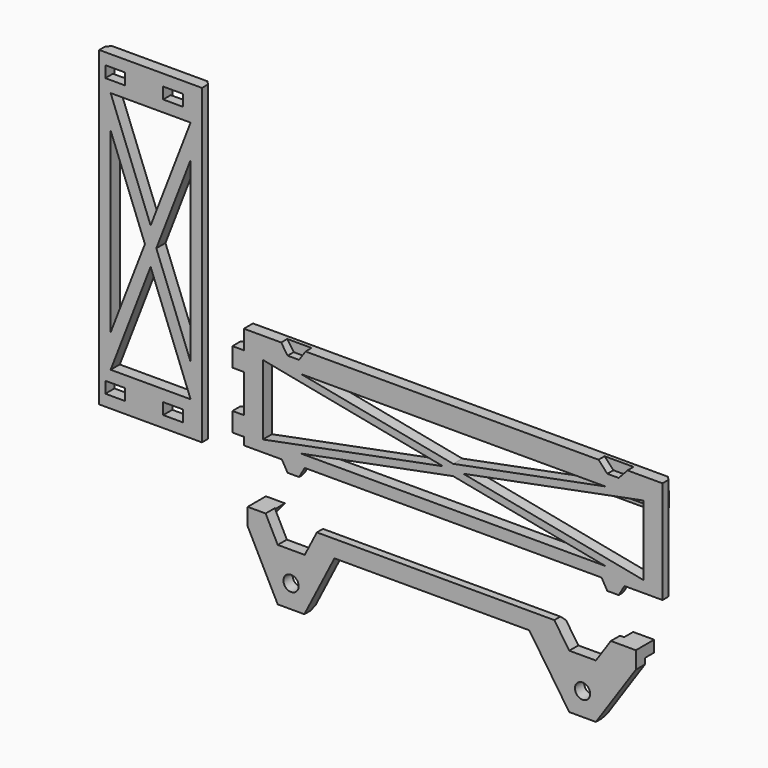
from build123d import *

# Parameters (mm, degrees)
SKETCH004_W             = 82
SKETCH004_H             = 27
SKETCH004_W_2           = 3
SKETCH004_H_2           = 5.2
PAD004_DEPTH            = 3
CHAMFER017_SIZE         = 1
CHAMFER018_SIZE         = 1
CHAMFER019_SIZE         = 0.5
CHAMFER020_SIZE         = 0.5
CHAMFER021_SIZE         = 0.5
CHAMFER022_SIZE         = 0.5
BODY002_PITCH_ANGLE     = -90
BODY002_PLACEMENT_ANGLE = -90
PAD002_DEPTH            = 3
POCKET_DEPTH            = 2
POCKET001_DEPTH         = 1.5
POCKET002_DEPTH         = 3
PAD006_DEPTH            = 3
CHAMFER014_SIZE         = 1
CHAMFER015_SIZE         = 0.5
CHAMFER016_SIZE         = 0.5
CHAMFER023_SIZE         = 0.5
CHAMFER024_SIZE         = 0.5
BODY001_PLACEMENT_ANGLE = 90
SKETCH_R                = 2
PAD_DEPTH               = 3
SKETCH001_W             = 5.5
SKETCH001_H             = 3
PAD005_DEPTH            = 3
CHAMFER_SIZE            = 1
CHAMFER009_SIZE         = 1
CHAMFER010_SIZE         = 1
CHAMFER011_SIZE         = 1
BODY_PLACEMENT_ANGLE    = 90


with BuildPart() as body002:
    # Sketch004 → Pad004 (new body)
    with BuildSketch(Plane.XY):
        with Locations((41, 13.5)):
            Rectangle(SKETCH004_W, SKETCH004_H)
        with Locations((4.5, 19.4)):
            Rectangle(SKETCH004_W_2, SKETCH004_H_2, mode=Mode.SUBTRACT)
        with Locations((4.5, 4.2)):
            Rectangle(SKETCH004_W_2, SKETCH004_H_2, mode=Mode.SUBTRACT)
        with Locations((77.5, 19.4)):
            Rectangle(SKETCH004_W_2, SKETCH004_H_2, mode=Mode.SUBTRACT)
        with Locations((77.5, 4.2)):
            Rectangle(SKETCH004_W_2, SKETCH004_H_2, mode=Mode.SUBTRACT)
        Polygon((9, 24), (9, 3), (36.230304, 13.5), align=None, mode=Mode.SUBTRACT)
        Polygon((45.769696, 13.5), (73, 24), (73, 3), align=None, mode=Mode.SUBTRACT)
        Polygon((17.659739, 24), (64.340261, 24), (41, 15), align=None, mode=Mode.SUBTRACT)
        Polygon((41, 12), (17.659739, 3), (64.340261, 3), align=None, mode=Mode.SUBTRACT)
    extrude(amount=PAD004_DEPTH)

    # Chamfer017
    chamfer017_edges = [body002.edges().sort_by_distance(p)[0] for p in [
        (41, 0, 3),
    ]]
    chamfer(chamfer017_edges, length=CHAMFER017_SIZE)

    # Chamfer018
    chamfer018_edges = [body002.edges().sort_by_distance(p)[0] for p in [
        (41, 27, 3),
    ]]
    chamfer(chamfer018_edges, length=CHAMFER018_SIZE)

    # Chamfer019
    chamfer019_edges = [body002.edges().sort_by_distance(p)[0] for p in [
        (6, 4.2, 3),
    ]]
    chamfer(chamfer019_edges, length=CHAMFER019_SIZE)

    # Chamfer020
    chamfer020_edges = [body002.edges().sort_by_distance(p)[0] for p in [
        (6, 19.4, 3),
    ]]
    chamfer(chamfer020_edges, length=CHAMFER020_SIZE)

    # Chamfer021
    chamfer021_edges = [body002.edges().sort_by_distance(p)[0] for p in [
        (76, 4.2, 3),
    ]]
    chamfer(chamfer021_edges, length=CHAMFER021_SIZE)

    # Chamfer022
    chamfer022_edges = [body002.edges().sort_by_distance(p)[0] for p in [
        (76, 19.4, 3),
    ]]
    chamfer(chamfer022_edges, length=CHAMFER022_SIZE)


with BuildPart() as body002_1:
    # Body002 pitch: moved
    add(body002.part.rotate(Axis((0, 0, 0), (0, 1, 0)), BODY002_PITCH_ANGLE))


with BuildPart() as body002_2:
    # Body002 placement: moved
    add(body002_1.part.moved(Location((-38, 0, -34))).rotate(Axis((-38, 0, -34), (0, 0, 1)), BODY002_PLACEMENT_ANGLE))


with BuildPart() as body001:
    # Sketch002 → Pad002 (new body)
    with BuildSketch(Plane.XY):
        Polygon((110, 27), (110, 0), (100, 0), (98.5, -2.598076), (95.5, -2.598076), (94, 0), (16, 0), (14.5, -2.598076), (11.5, -2.598076), (10, 0), (0, 0), (0, 2), (-3, 2), (-3, 7), (0, 7), (0, 17), (-3, 17), (-3, 22), (0, 22), (0, 27), align=None)
    extrude(amount=PAD002_DEPTH)

    # Sketch006 (on Face21 of Pad002) → Pocket (cut)
    with BuildSketch(Plane(origin=(0, 0, 0), x_dir=(1, 0, 0), z_dir=(0, 0, -1))):
        Polygon((9.8, -27), (11.5, -24.5), (14.5, -24.5), (16.2, -27), align=None)
        Polygon((93.2, -27), (95.5, -24.5), (98.5, -24.5), (100.8, -27), align=None)
    extrude(amount=-POCKET_DEPTH, mode=Mode.SUBTRACT)

    # Sketch007 (on Face10 of Pocket) → Pocket001 (cut)
    with BuildSketch(Plane.XY.offset(3)):
        Polygon((94, 0), (100, 0), (98.5, -2.598076), (95.5, -2.598076), align=None)
        Polygon((10, 0), (11.5, -2.598076), (14.5, -2.598076), (16, 0), align=None)
    extrude(amount=-POCKET001_DEPTH, mode=Mode.SUBTRACT)

    # Sketch005 (on Face2 of Pocket001) → Pocket002 (cut)
    with BuildSketch(Plane(origin=(0, 0, 0), x_dir=(1, 0, 0), z_dir=(0, 0, -1))):
        Polygon((5, -3), (5, -21.401924), (52.334846, -12.200962), align=None)
        Polygon((15, -3), (55, -10.775212), (95, -3), align=None)
        Polygon((57.665154, -12.200962), (105, -3), (105, -21.401924), align=None)
        Polygon((55, -13.626712), (15, -21.401924), (95, -21.401924), align=None)
    extrude(amount=-POCKET002_DEPTH, mode=Mode.SUBTRACT)

    # Sketch003 (on Face10 of Pocket002) → Pad006 (join)
    with BuildSketch(Plane.XY.offset(3)):
        Polygon((0, 18.7), (3.5, 18.7), (6.2, 21.9), (97.2, 21.9), (97.2, 18.7), (104.2, 18.7), (106.047521, 21.9), (106.847521, 21.9), (106.847521, 17.886062), (90.847521, 17.886062), (87.017299, 21.1), (6.2, 21.1), (3.5, 17.9), (0, 17.9), align=None)
    extrude(amount=PAD006_DEPTH)

    # Chamfer014
    chamfer014_edges = [body001.edges().sort_by_distance(p)[0] for p in [
        (110, 13.5, 3),
    ]]
    chamfer(chamfer014_edges, length=CHAMFER014_SIZE)

    # Chamfer015
    chamfer015_edges = [body001.edges().sort_by_distance(p)[0] for p in [
        (97, -2.598076, 1.5),
    ]]
    chamfer(chamfer015_edges, length=CHAMFER015_SIZE)

    # Chamfer016
    chamfer016_edges = [body001.edges().sort_by_distance(p)[0] for p in [
        (13, -2.598076, 1.5),
    ]]
    chamfer(chamfer016_edges, length=CHAMFER016_SIZE)

    # Chamfer023
    chamfer023_edges = [body001.edges().sort_by_distance(p)[0] for p in [
        (-3, 19.5, 3),
    ]]
    chamfer(chamfer023_edges, length=CHAMFER023_SIZE)

    # Chamfer024
    chamfer024_edges = [body001.edges().sort_by_distance(p)[0] for p in [
        (-3, 4.5, 3),
    ]]
    chamfer(chamfer024_edges, length=CHAMFER024_SIZE)


with BuildPart() as body001_1:
    # Body001 placement: moved
    add(body001.part.moved(Location((0, 0, 35))).rotate(Axis((0, 0, 35), (-1, 0, 0)), BODY001_PLACEMENT_ANGLE))


with BuildPart() as part_mirroring001:
    # Part__Mirroring001: instance of Body001
    add(body001_1.part.mirror(Plane(origin=(35.746887, 3.000672, 1.939669), x_dir=(0, 1, 0), z_dir=(0, 0, 1))))


with BuildPart() as body:
    # Sketch → Pad (new body)
    with BuildSketch(Plane.XY):
        Polygon((102, 15.5), (102, 20), (95.425937, 20), (91.5, 14.204569), (84.5, 14.204569), (80.574063, 20), (18.178686, 20), (15, 13.763338), (7.9, 13.763338), (4.721314, 20), (0, 20), (0, 15.5), (7.9, 0), (14.9, 0), (22.8, 15.5), (74, 15.5), (84.5, 0), (91.5, 0), align=None)
        with Locations((11.4, 6)):
            Circle(SKETCH_R, mode=Mode.SUBTRACT)
        with Locations((88, 6)):
            Circle(SKETCH_R, mode=Mode.SUBTRACT)
    extrude(amount=PAD_DEPTH)

    # Sketch001 (on Face22 of Pad) → Pad005 (join)
    with BuildSketch(Plane.XY.offset(3)):
        Polygon((0, 20), (5, 20), (2.5, 17), (0, 17), align=None)
        with Locations((99.25, 18.5)):
            Rectangle(SKETCH001_W, SKETCH001_H)
    extrude(amount=PAD005_DEPTH)

    # Chamfer
    chamfer_edges = [body.edges().sort_by_distance(p)[0] for p in [
        (49.376374, 20, 3),
    ]]
    chamfer(chamfer_edges, length=CHAMFER_SIZE)

    # Chamfer009
    chamfer009_edges = [body.edges().sort_by_distance(p)[0] for p in [
        (11.4, 0, 3),
    ]]
    chamfer(chamfer009_edges, length=CHAMFER009_SIZE)

    # Chamfer010
    chamfer010_edges = [body.edges().sort_by_distance(p)[0] for p in [
        (88, 0, 3),
    ]]
    chamfer(chamfer010_edges, length=CHAMFER010_SIZE)

    # Chamfer011
    chamfer011_edges = [body.edges().sort_by_distance(p)[0] for p in [
        (48.4, 15.5, 3),
    ]]
    chamfer(chamfer011_edges, length=CHAMFER011_SIZE)


with BuildPart() as body_1:
    # Body placement: moved
    add(body.part.moved(Location((1, 0, 65))).rotate(Axis((1, 0, 65), (-1, 0, 0)), BODY_PLACEMENT_ANGLE))


with BuildPart() as part_mirroring:
    # Part__Mirroring: instance of Body
    add(body_1.part.mirror(Plane(origin=(52, 3, 0), x_dir=(0, 1, 0), z_dir=(0, 0, 1))))


solid = Compound([body002_2.part, part_mirroring001.part, part_mirroring.part])
